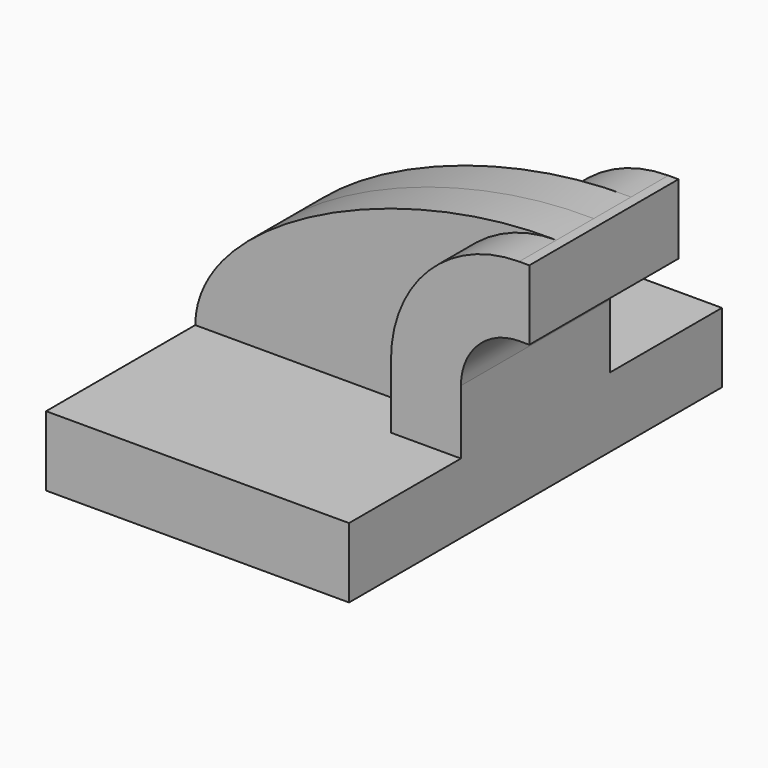
from build123d import *

# Parameters (mm, degrees)
F1_DEPTH = 63.5
F2_DEPTH = 25.4
F3_DEPTH = 12.7


with BuildPart() as f1:
    # F0 (on Front) → F1 (new body, symmetric)
    with BuildSketch(Plane.XZ):
        Polygon((41.275, -9.525), (41.275, 9.525), (22.225, 9.525), (-41.275, 9.525), (-41.275, -9.525), align=None)
    extrude(amount=F1_DEPTH, both=True)

    # F0 (on Front) → F2 (join, symmetric)
    with BuildSketch(Plane.XZ):
        with BuildLine():
            Line((22.225, 9.525), (41.275, 9.525))
            Line((41.275, 9.525), (41.275, 27.0002))
            ThreePointArc((41.275, 27.0002), (45.92468, 38.22552), (57.15, 42.8752))
            Line((57.15, 42.8752), (59.910303, 42.8752))
            Line((59.910303, 42.8752), (59.910303, 61.9252))
            Line((59.910303, 61.9252), (57.15, 61.9252))
            ThreePointArc((57.15, 61.9252), (32.454296, 51.695904), (22.225, 27.0002))
            Line((22.225, 27.0002), (22.225, 9.525))
        make_face()
    extrude(amount=F2_DEPTH, both=True)

    # F0 (on Front) → F3 (join, symmetric)
    with BuildSketch(Plane.XZ):
        with BuildLine():
            Line((-41.275, 9.525), (22.225, 9.525))
            Line((22.225, 9.525), (22.225, 27.0002))
            ThreePointArc((22.225, 27.0002), (32.454296, 51.695904), (57.15, 61.9252))
            add(Edge.make_bspline(
                [(-41.275, 9.525), (-41.021902, 37.119821), (13.006945, 62.733494), (57.15, 61.9252)],
                knots=[0, 0, 0, 0, 111.504536, 111.504536, 111.504536, 111.504536], degree=3))
        make_face()
    extrude(amount=F3_DEPTH, both=True)


solid = f1.part
